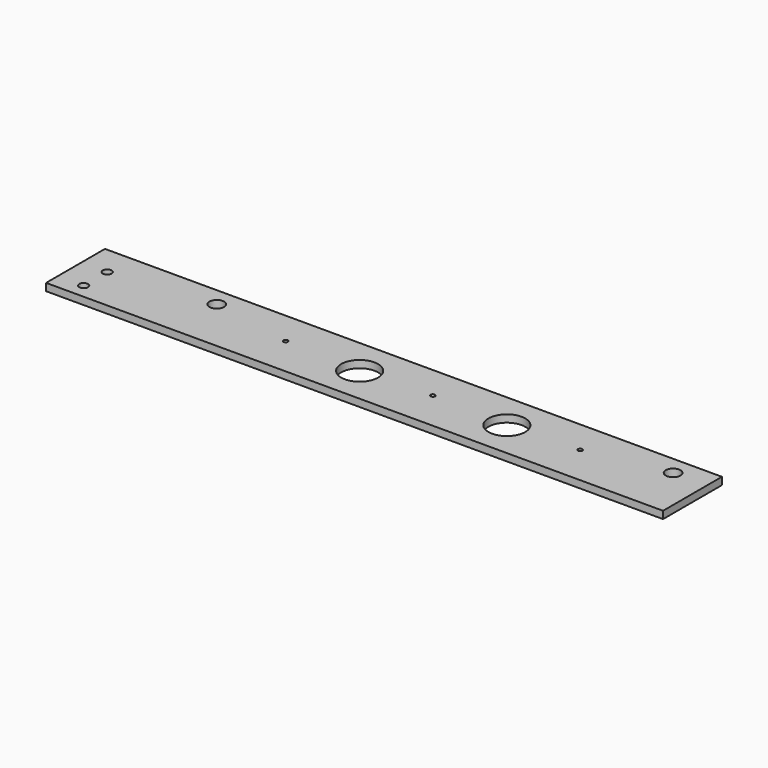
from build123d import *

# Parameters (mm, degrees)
F0_W      = 356
F0_H      = 50
F1_DEPTH  = 5
F2_R      = 5
F2_R_2    = 12.5
F3_DEPTH  = 5.001
F4_R      = 1.5
F5_DEPTH  = 5.001
F6_W      = 49.406879
F6_H      = 21.095738
F7_DEPTH  = 25
F9_W      = 63.062
F9_H      = 50
F10_DEPTH = 5
F11_R     = 3
F12_DEPTH = 25


with BuildPart() as f1:
    # F0 (on Top) → F1 (new body)
    with BuildSketch(Plane.XY):
        Rectangle(F0_W, F0_H)
    extrude(amount=F1_DEPTH)

    # F2 (on face) → F3 (cut, through all)
    with BuildSketch(Plane.XY.offset(5)):
        with Locations((-155, 12.335402)):
            Circle(F2_R)
        with Locations((155, 12.335402)):
            Circle(F2_R)
        with Locations((-48.086096, 0)):
            Circle(F2_R_2)
        with Locations((51.913904, 0)):
            Circle(F2_R_2)
    extrude(amount=-F3_DEPTH, mode=Mode.SUBTRACT)

    # F4 (on face) → F5 (cut, through all)
    with BuildSketch(Plane.XY.offset(5)):
        with Locations((0, 2.148001)):
            Circle(F4_R)
        with Locations((100, 2.148001)):
            Circle(F4_R)
        with Locations((-100, 2.148001)):
            Circle(F4_R)
    extrude(amount=-F5_DEPTH, mode=Mode.SUBTRACT)

    # F9 (on Top) → F10 (join, through all)
    with BuildSketch(Plane.XY):
        with Locations((-209.531, 0)):
            Rectangle(F9_W, F9_H)
    extrude(amount=F10_DEPTH)

    # F11 (on face) → F12 (cut)
    with BuildSketch(Plane.XY.offset(5)):
        with Locations((-223.56236, 5)):
            Circle(F11_R)
        with Locations((-223.56236, -15)):
            Circle(F11_R)
    extrude(amount=-F12_DEPTH, mode=Mode.SUBTRACT)


with BuildPart() as f7:
    # F6 (on Top) → F7 (new body)
    with BuildSketch(Plane.XY):
        with Locations((37.024449, 48.380569)):
            Rectangle(F6_W, F6_H)
    extrude(amount=F7_DEPTH)


solid = f1.part
